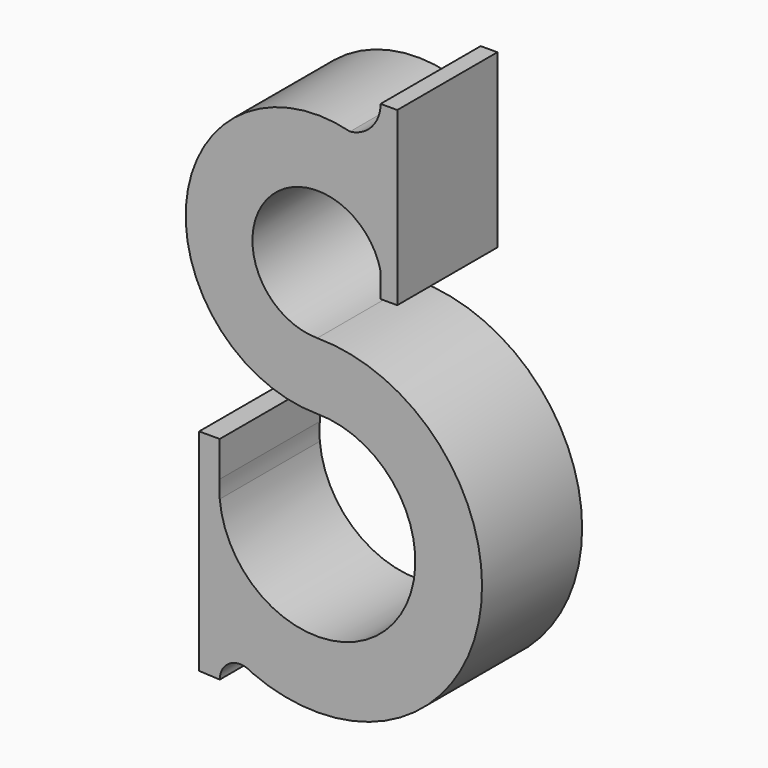
from build123d import *

# Parameters (mm, degrees)
F1_DEPTH = 38.1


with BuildPart() as f1:
    # F0 (on Front) → F1 (new body)
    with BuildSketch(Plane.XZ):
        with BuildLine():
            ThreePointArc((-20.02527, -96.13909), (49.101263, -60.382661), (0, 0))
            ThreePointArc((0, 0), (-15.465639, 32.071315), (19.259737, 24.20344))
            Line((19.259737, 24.20344), (19.259737, 54.919144))
            ThreePointArc((19.259737, 54.919144), (14.720483, 57.04847), (9.950919, 58.594471))
            ThreePointArc((9.950919, 58.594471), (-39.769695, 24.779488), (0, -20.32))
            ThreePointArc((0, -20.32), (22.020464, -70.285545), (-29.715391, -52.825367))
            Line((-29.715391, -52.825367), (-29.715391, -90.559729))
            ThreePointArc((-29.715391, -90.559729), (-25.941689, -93.080237), (-21.955613, -95.249332))
            ThreePointArc((-21.955613, -95.249332), (-20.951886, -95.610565), (-20.02527, -96.13909))
        make_face()
        Polygon((19.259737, 54.919144), (19.259737, 24.20344), (19.259737, 16.724238), (24.339737, 16.724238), (24.339737, 69.048567), (19.259737, 69.048567), align=None)
        with BuildLine():
            Line((-29.715391, -101.220826), (-29.715391, -90.559729))
            Line((-29.715391, -90.559729), (-29.715391, -52.825367))
            ThreePointArc((-29.715391, -52.825367), (-29.835124, -50.155124), (-29.715391, -47.484882))
            Line((-29.715391, -47.484882), (-29.715391, -36.713058))
            Line((-29.715391, -36.713058), (-35.986979, -36.713058))
            Line((-35.986979, -36.713058), (-35.986979, -100.922184))
            Line((-35.986979, -100.922184), (-29.715391, -101.220826))
        make_face()
        with BuildLine():
            ThreePointArc((-29.715391, -101.220826), (-27.305323, -96.325091), (-21.955613, -95.249332))
            ThreePointArc((-21.955613, -95.249332), (-25.941689, -93.080237), (-29.715391, -90.559729))
            Line((-29.715391, -90.559729), (-29.715391, -101.220826))
        make_face()
        with BuildLine():
            ThreePointArc((9.950919, 58.594471), (14.720483, 57.04847), (19.259737, 54.919144))
            Line((19.259737, 54.919144), (19.259737, 69.048567))
            ThreePointArc((19.259737, 69.048567), (16.59525, 62.049598), (9.950919, 58.594471))
        make_face()
    extrude(amount=F1_DEPTH)


solid = f1.part
